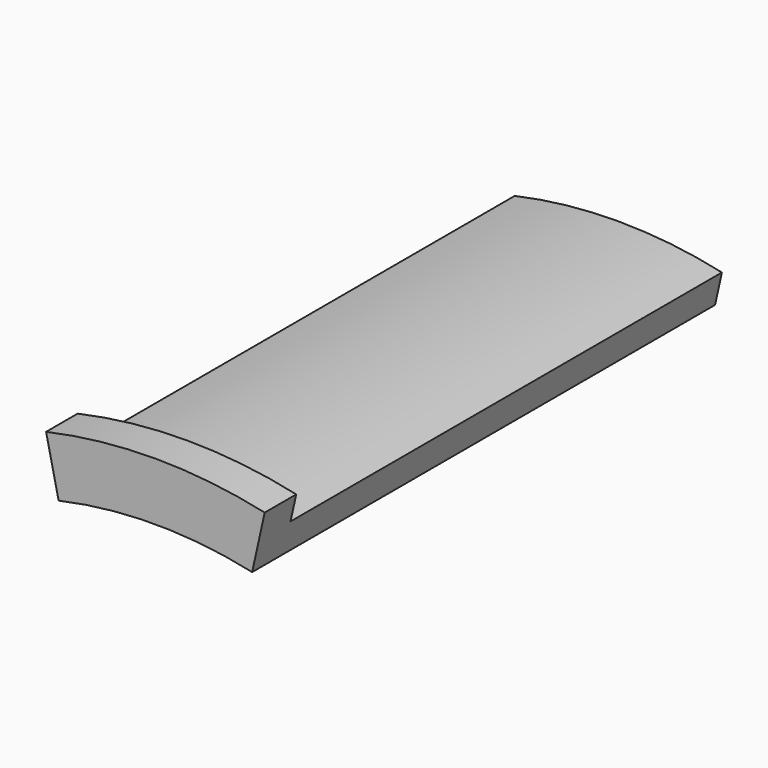
from build123d import *

# Parameters (mm, degrees)
F1_ANGLE_BACK = 12.5
F1_ANGLE      = 25
F2_W          = 4
F2_H          = 1.2
F3_ANGLE_BACK = 12.5
F3_ANGLE      = 25


with BuildPart() as f1:
    # F0 (on Right) → F1 (revolve)
    with BuildSketch(Plane.YZ, mode=Mode.PRIVATE) as f1_sk:
        Polygon((0, 18.2), (-16.5, 18.2), (-16.5, 19.2), (-18, 19.2), (-18, 17), (0, 17), align=None)
    revolve(f1_sk.sketch.rotate(Axis((0, 7.2532626098, 0), (0, 1, 0)), -F1_ANGLE_BACK), axis=Axis((0, 7.2532626098, 0), (0, 1, 0)), revolution_arc=F1_ANGLE)

    # F2 (on Right) → F3 (revolve)
    with BuildSketch(Plane.YZ, mode=Mode.PRIVATE) as f3_sk:
        with Locations((2, 17.6)):
            Rectangle(F2_W, F2_H)
    revolve(f3_sk.sketch.rotate(Axis((0, 7.2532626098, 0), (0, 1, 0)), -F3_ANGLE_BACK), axis=Axis((0, 7.2532626098, 0), (0, 1, 0)), revolution_arc=F3_ANGLE)


solid = f1.part
